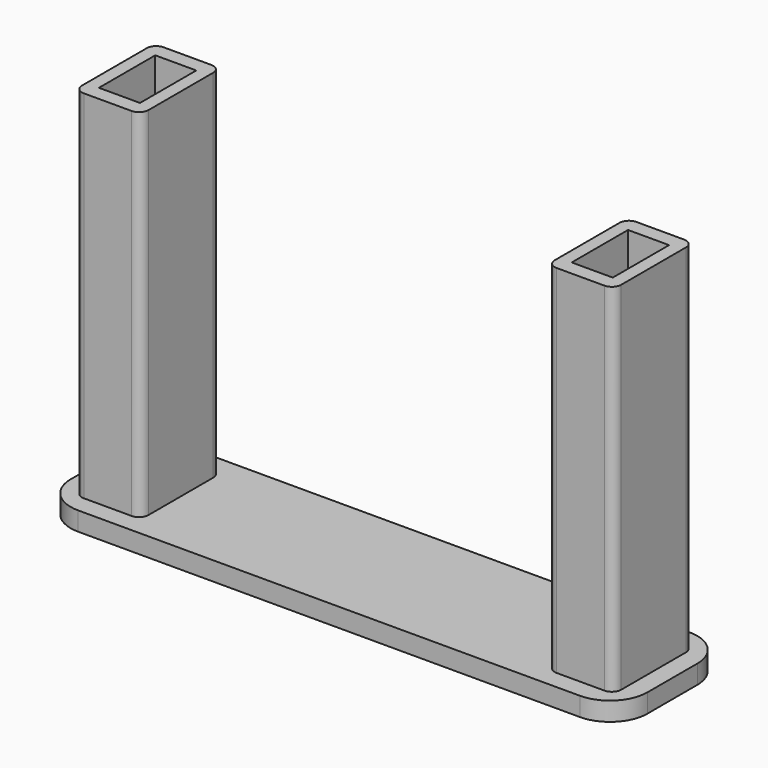
from build123d import *

# Parameters (mm, degrees)
F0_W     = 78.0796
F0_H     = 18.5801
F1_DEPTH = 2.54
F2_W     = 8.99922
F2_H     = 13.5001
F2_W_2   = 8.999221
F3_DEPTH = 48.26
F4_R     = 5.08
F5_R     = 1.27
F6_W     = 5.55625
F6_H     = 9.525
F7_DEPTH = 76.2
F8_W     = 5.55625
F8_H     = 9.525
F9_DEPTH = 76.2


with BuildPart() as f1:
    # F0 (on Top) → F1 (new body)
    with BuildSketch(Plane.XY):
        Rectangle(F0_W, F0_H)
    extrude(amount=F1_DEPTH)

    # F2 (on face) → F3 (join)
    with BuildSketch(Plane.XY.offset(2.54)):
        with Locations((32.00019, 0)):
            Rectangle(F2_W, F2_H)
        with Locations((-32.000189, 0)):
            Rectangle(F2_W_2, F2_H)
    extrude(amount=F3_DEPTH)

    # F4
    f4_edges = [f1.edges().sort_by_distance(p)[0] for p in [
        (39.0398, 9.29005, 1.27),
        (39.0398, -9.29005, 1.27),
        (-39.0398, -9.29005, 1.27),
        (-39.0398, 9.29005, 1.27),
    ]]
    fillet(f4_edges, radius=F4_R)

    # F5
    f5_edges = [f1.edges().sort_by_distance(p)[0] for p in [
        (36.4998, 6.75005, 26.67),
        (36.4998, -6.75005, 26.67),
        (27.50058, -6.75005, 26.67),
        (27.50058, 6.75005, 26.67),
        (-27.500579, -6.75005, 26.67),
        (-36.4998, -6.75005, 26.67),
        (-36.4998, 6.75005, 26.67),
        (-27.500579, 6.75005, 26.67),
    ]]
    fillet(f5_edges, radius=F5_R)

    # F6 (on face) → F7 (cut)
    with BuildSketch(Plane.XY.offset(50.8)):
        with Locations((32.00019, 0)):
            Rectangle(F6_W, F6_H)
    extrude(amount=-F7_DEPTH, mode=Mode.SUBTRACT)

    # F8 (on face) → F9 (cut)
    with BuildSketch(Plane.XY.offset(50.8)):
        with Locations((-32.000189, 0)):
            Rectangle(F8_W, F8_H)
    extrude(amount=-F9_DEPTH, mode=Mode.SUBTRACT)


solid = f1.part
